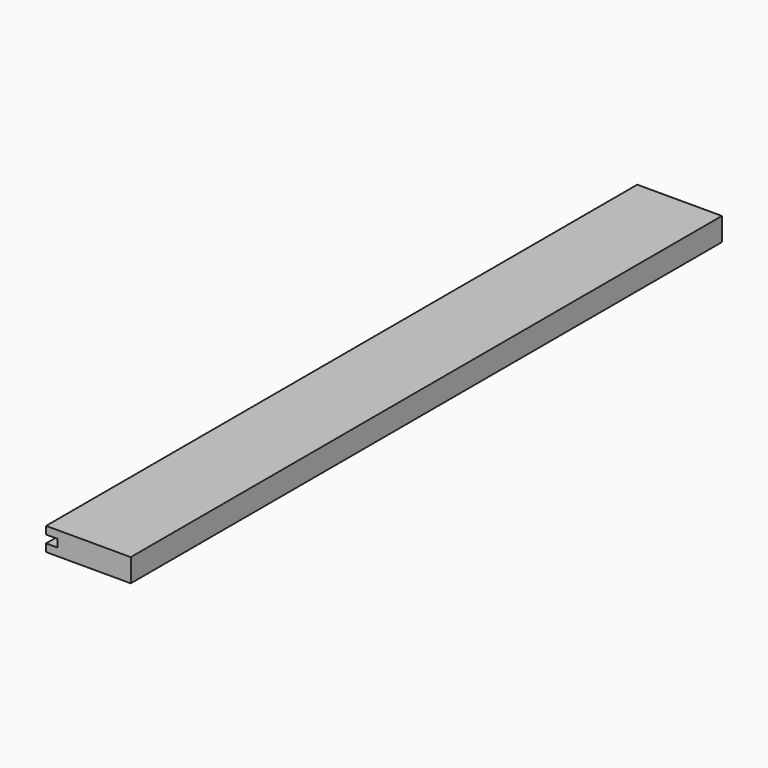
from build123d import *

# Parameters (mm, degrees)
F0_W     = 69.85
F0_H     = 19.05
F1_DEPTH = 304.8
F2_W     = 9.525
F2_H     = 6.35
F3_DEPTH = 609.601


with BuildPart() as f1:
    # F0 (on Front) → F1 (new body, symmetric)
    with BuildSketch(Plane.XZ):
        with Locations((-34.925, 9.525)):
            Rectangle(F0_W, F0_H)
    extrude(amount=F1_DEPTH, both=True)

    # F2 (on face) → F3 (cut, through all)
    with BuildSketch(Plane.XZ.offset(304.8)):
        with Locations((-65.0875, 9.525)):
            Rectangle(F2_W, F2_H)
    extrude(amount=-F3_DEPTH, mode=Mode.SUBTRACT)


solid = f1.part
